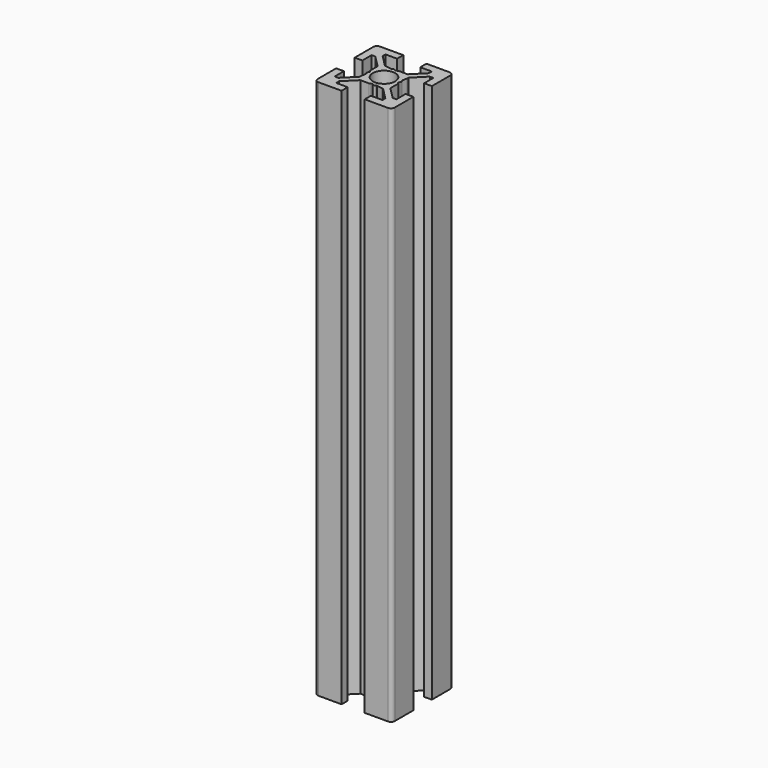
from build123d import *

# Parameters (mm, degrees)
SKETCH001_R = 2.9
PAD_DEPTH   = 70


with BuildPart() as part:
    # Sketch001 → Pad (new body, symmetric)
    with BuildSketch(Plane.XY):
        with BuildLine():
            Line((-8, -3), (-10, -3))
            Line((-10, -3), (-10, -9))
            ThreePointArc((-10, -9), (-9.707107, -9.707107), (-9, -10))
            Line((-9, -10), (-3, -10))
            Line((-3, -10), (-3, -8))
            Line((-3, -8), (-6, -8))
            Line((-6, -8), (-6, -7.06066))
            Line((-6, -7.06066), (-2.93934, -4))
            Line((-2.93934, -4), (-0.65359, -4))
            ThreePointArc((-0.65359, -4), (-0.52418, -3.982963), (-0.40359, -3.933013))
            Line((-0.40359, -3.933013), (0, -3.7))
            Line((0, -3.7), (0.40359, -3.933013))
            ThreePointArc((0.40359, -3.933013), (0.65359, -4), (0.90359, -3.933013))
            Line((0.90359, -3.933013), (1.218886, -3.750977))
            Line((1.218886, -3.750977), (2.5, -4))
            Line((2.5, -4), (2.93934, -4))
            Line((2.93934, -4), (6, -7.06066))
            Line((6, -7.06066), (6, -8))
            Line((6, -8), (3, -8))
            Line((3, -8), (3, -10))
            Line((3, -10), (9, -10))
            ThreePointArc((9, -10), (9.707107, -9.707107), (10, -9))
            Line((10, -9), (10, -3))
            Line((10, -3), (8, -3))
            Line((8, -3), (8, -6))
            Line((8, -6), (7.06066, -6))
            Line((7.06066, -6), (4, -2.93934))
            Line((4, -2.93934), (4, -0.65359))
            ThreePointArc((4, -0.65359), (3.982963, -0.52418), (3.933013, -0.40359))
            Line((3.933013, -0.40359), (3.7, 0))
            Line((3.7, 0), (3.933013, 0.40359))
            ThreePointArc((3.933013, 0.40359), (4, 0.65359), (3.933013, 0.90359))
            Line((3.933013, 0.90359), (3.750977, 1.218886))
            Line((3.750977, 1.218886), (4, 2.5))
            Line((4, 2.5), (4, 2.93934))
            Line((4, 2.93934), (7.06066, 6))
            Line((7.06066, 6), (8, 6))
            Line((8, 6), (8, 3))
            Line((8, 3), (10, 3))
            Line((10, 3), (10, 9))
            ThreePointArc((10, 9), (9.707107, 9.707107), (9, 10))
            Line((9, 10), (3, 10))
            Line((3, 10), (3, 8))
            Line((3, 8), (6, 8))
            Line((6, 8), (6, 7.06066))
            Line((6, 7.06066), (2.93934, 4))
            Line((2.93934, 4), (0.65359, 4))
            ThreePointArc((0.65359, 4), (0.52418, 3.982963), (0.40359, 3.933013))
            Line((0.40359, 3.933013), (0, 3.7))
            Line((0, 3.7), (-0.40359, 3.933013))
            ThreePointArc((-0.40359, 3.933013), (-0.65359, 4), (-0.90359, 3.933013))
            Line((-0.90359, 3.933013), (-1.218886, 3.750977))
            Line((-1.218886, 3.750977), (-2.5, 4))
            Line((-2.5, 4), (-2.93934, 4))
            Line((-2.93934, 4), (-6, 7.06066))
            Line((-6, 7.06066), (-6, 8))
            Line((-6, 8), (-3, 8))
            Line((-3, 8), (-3, 10))
            Line((-3, 10), (-9, 10))
            ThreePointArc((-9, 10), (-9.707107, 9.707107), (-10, 9))
            Line((-10, 9), (-10, 3))
            Line((-10, 3), (-8, 3))
            Line((-8, 3), (-8, 6))
            Line((-8, 6), (-7.06066, 6))
            Line((-7.06066, 6), (-4, 2.93934))
            Line((-4, 2.93934), (-4, 0.65359))
            ThreePointArc((-4, 0.65359), (-3.982963, 0.52418), (-3.933013, 0.40359))
            Line((-3.933013, 0.40359), (-3.7, 0))
            Line((-3.7, 0), (-3.933013, -0.40359))
            ThreePointArc((-3.933013, -0.40359), (-4, -0.65359), (-3.933013, -0.90359))
            Line((-3.933013, -0.90359), (-3.750977, -1.218886))
            Line((-3.750977, -1.218886), (-4, -2.5))
            Line((-4, -2.5), (-4, -2.93934))
            Line((-4, -2.93934), (-7.06066, -6))
            Line((-7.06066, -6), (-8, -6))
            Line((-8, -6), (-8, -3))
        make_face()
        Circle(SKETCH001_R, mode=Mode.SUBTRACT)
    extrude(amount=PAD_DEPTH, both=True)


solid = part.part
